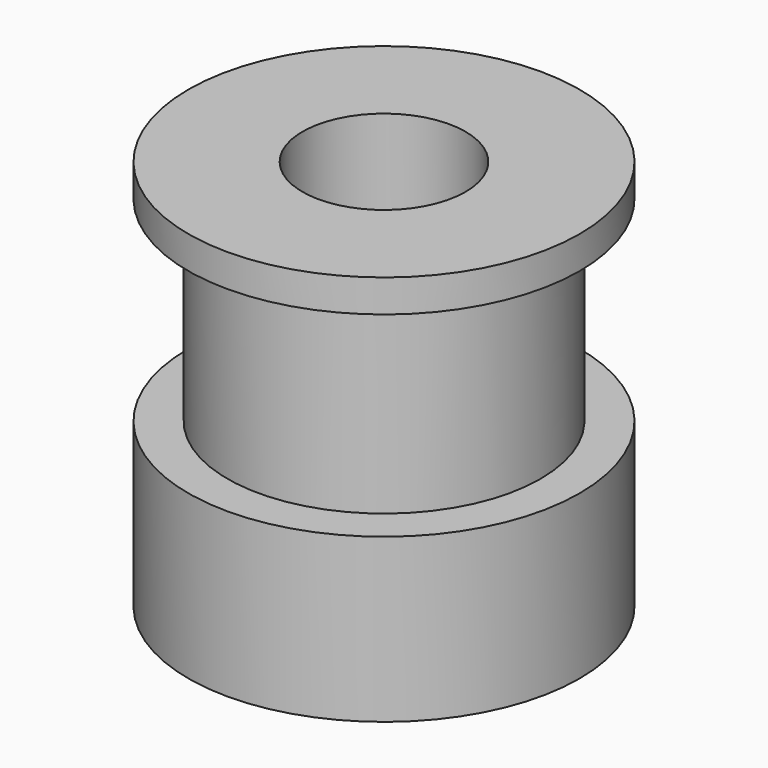
from build123d import *


with BuildPart() as part:
    # Sketch → Revolution (revolve)
    with BuildSketch(Plane.XZ):
        Polygon((2.5, 0), (2.5, 12), (6, 12), (6, 11), (4.8, 11), (4.8, 5), (6, 5), (6, 0), align=None)
    revolve(axis=Axis((0, 0, 0), (0, 0, 1)))


solid = part.part
